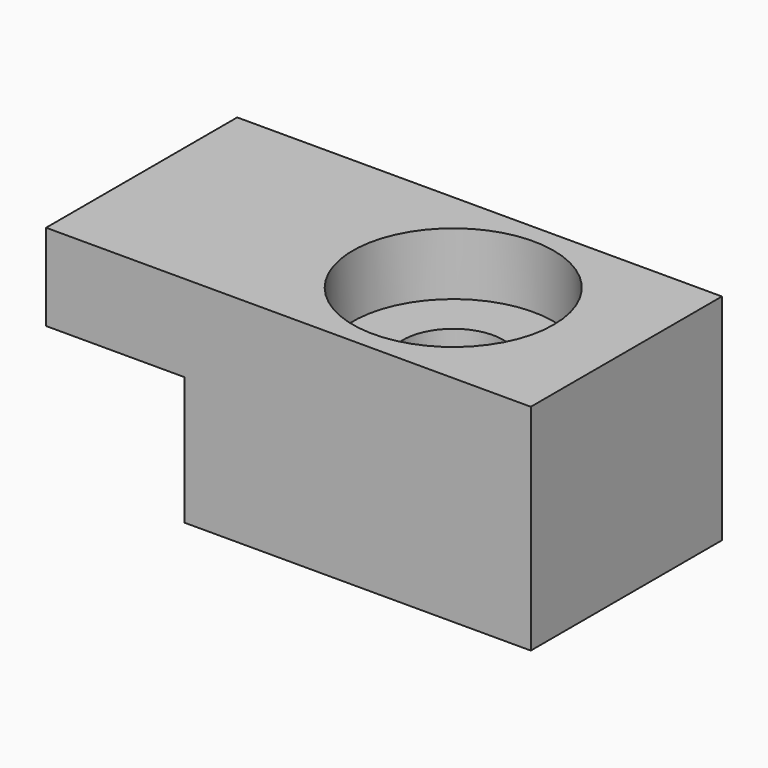
from build123d import *

# Parameters (mm, degrees)
F0_W     = 12.7
F0_H     = 8.763
F1_DEPTH = 3.175
F3_DEPTH = 8.763
F4_R     = 1.8415
F5_DEPTH = 25.4
F6_R     = 3.683
F6_R_2   = 1.8415
F7_DEPTH = 2.286
F8_W     = 12.7
F8_H     = 8.763
F8_R     = 1.8415
F9_DEPTH = 1.524


with BuildPart() as f1:
    # F0 (on Top) → F1 (new body)
    with BuildSketch(Plane.XY):
        Rectangle(F0_W, F0_H)
    extrude(amount=F1_DEPTH)

    # F2 (on face) → F3 (join)
    with BuildSketch(Plane.XZ.offset(4.3815)):
        Polygon((-6.35, 3.175), (6.35, 3.175), (6.35, 6.35), (-11.43, 6.35), (-11.43, 3.175), align=None)
    extrude(amount=-F3_DEPTH)

    # F4 (on face) → F5 (cut)
    with BuildSketch(Plane.XY.offset(6.35)):
        Circle(F4_R)
    extrude(amount=-F5_DEPTH, mode=Mode.SUBTRACT)

    # F6 (on face) → F7 (cut)
    with BuildSketch(Plane.XY.offset(6.35)):
        Circle(F6_R)
        Circle(F6_R_2, mode=Mode.SUBTRACT)
    extrude(amount=-F7_DEPTH, mode=Mode.SUBTRACT)

    # F8 (on face) → F9 (join)
    with BuildSketch(Plane(origin=(0, 0, 0), x_dir=(1, 0, 0), z_dir=(0, 0, -1))):
        Rectangle(F8_W, F8_H)
        Circle(F8_R, mode=Mode.SUBTRACT)
    extrude(amount=F9_DEPTH)


solid = f1.part
